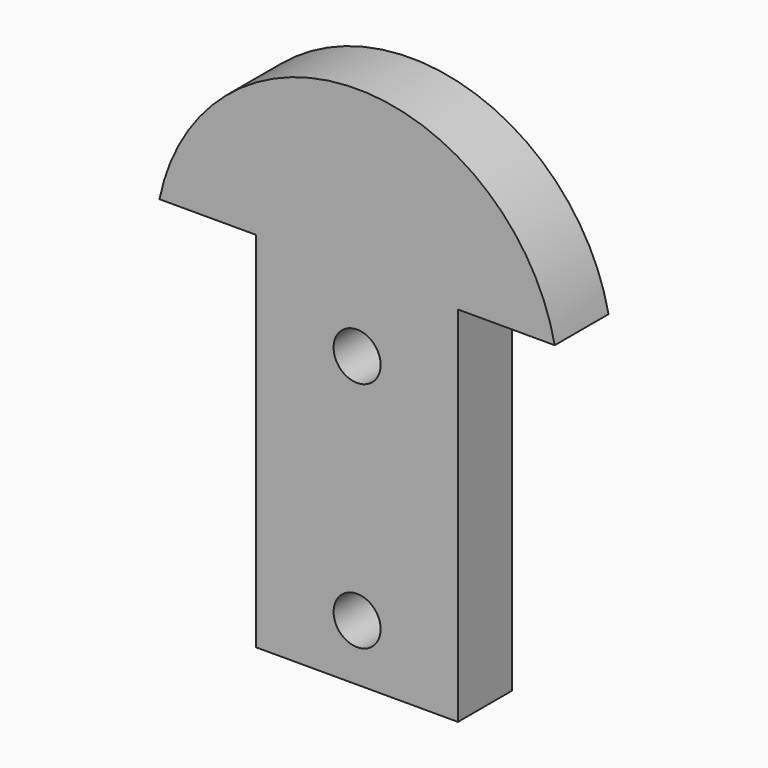
from build123d import *

# Parameters (mm, degrees)
F0_R     = 1.75
F1_DEPTH = 5


with BuildPart() as f1:
    # F0 (on Front) → F1 (new body)
    with BuildSketch(Plane.XZ):
        with BuildLine():
            Line((-7.5, -13.5), (7.5, -13.5))
            Line((7.5, -13.5), (7.5, 13.5))
            Line((7.5, 13.5), (14.696938, 13.5))
            ThreePointArc((14.696938, 13.5), (0, 25.5), (-14.696938, 13.5))
            Line((-14.696938, 13.5), (-7.5, 13.5))
            Line((-7.5, 13.5), (-7.5, -13.5))
        make_face()
        with Locations((0, -9.3)):
            Circle(F0_R, mode=Mode.SUBTRACT)
        with Locations((0, 8)):
            Circle(F0_R, mode=Mode.SUBTRACT)
    extrude(amount=F1_DEPTH)


solid = f1.part
